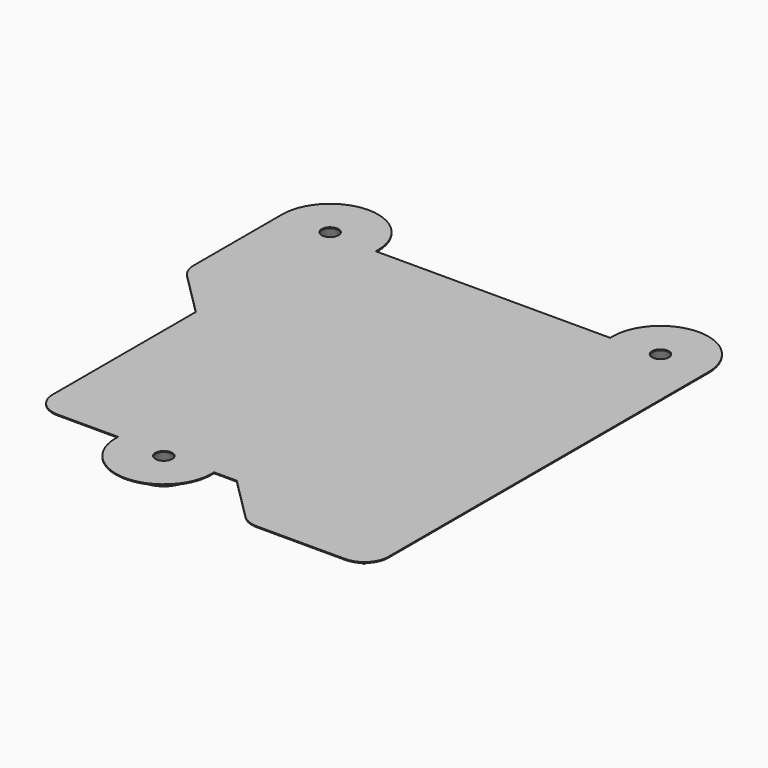
from build123d import *

# Parameters (mm, degrees)
F0_R     = 1.75
F1_DEPTH = 3
F2_SIZE2 = 2.8
F2_SIZE  = 1.6
F4_DEPTH = 0.2


with BuildPart() as f1:
    # F0 (on Top) → F1 (new body)
    with BuildSketch(Plane.XY):
        with BuildLine():
            Line((17.9, -39.193), (17.9, -44.793))
            ThreePointArc((17.9, -44.793), (22.9, -49.793), (27.9, -44.793))
            Line((27.9, -44.793), (27.9, -39.193))
            Line((27.9, -39.193), (39.6807047181, -39.193))
            Line((39.6807047181, -39.193), (50.1974673469, -49.6928583233))
            Line((50.1974673469, -49.6928583233), (68.6003446043, -49.6928583233))
            Line((68.6003446043, -49.6928583233), (68.6003446043, 33.6071416767))
            ThreePointArc((68.6003446043, 33.6071416767), (63.6003446043, 38.6071416767), (58.6003446043, 33.6071416767))
            Line((58.6003446043, 33.6071416767), (58.6003446043, 28.0071416767))
            Line((58.6003446043, 28.0071416767), (-0.1976553957, 28.0071416767))
            Line((-0.1976553957, 28.0071416767), (-0.1976553957, 33.6071416767))
            ThreePointArc((-0.1976553957, 33.6071416767), (-5.1976553957, 38.6071416767), (-10.1976553957, 33.6071416767))
            Line((-10.1976553957, 33.6071416767), (-10.1976553957, 10.6051872446))
            Line((-10.1976553957, 10.6051872446), (0.3, 0.124405442))
            Line((0.3, 0.124405442), (0.3, -39.193))
            Line((0.3, -39.193), (17.9, -39.193))
        make_face()
        with Locations((22.9, -44.793)):
            Circle(F0_R, mode=Mode.SUBTRACT)
        with Locations((-5.1976553957, 33.6071416767)):
            Circle(F0_R, mode=Mode.SUBTRACT)
        with Locations((63.6003446043, 33.6071416767)):
            Circle(F0_R, mode=Mode.SUBTRACT)
    extrude(amount=F1_DEPTH)

    # F2
    f2_edges = [f1.edges().sort_by_distance(p)[0] for p in [
        (21.15, -44.793, 0),
        (-6.947655, 33.607142, 0),
        (61.850345, 33.607142, 0),
    ]]
    f2_side = f1.faces().sort_by_distance((33.388783, -5.784916, 0))[0]
    chamfer(f2_edges, length=F2_SIZE, length2=F2_SIZE2, reference=f2_side)

    # F3 (on face) → F4 (join)
    with BuildSketch(Plane.XY.offset(3)):
        with BuildLine():
            ThreePointArc((4.8023446043, 33.6071416767), (-5.1976553957, 43.6071416767), (-15.1976553957, 33.6071416767))
            Line((-15.1976553957, 33.6071416767), (-15.1976553957, 10.6051872446))
            ThreePointArc((-15.1976553957, 10.6051872446), (-14.8162831751, 8.6899124771), (-13.7303444218, 7.0668107461))
            Line((-13.7303444218, 7.0668107461), (-4.7, -1.949018591))
            Line((-4.7, -1.949018591), (-4.7, -39.193))
            ThreePointArc((-4.7, -39.193), (-3.2355339059, -42.7285339059), (0.3, -44.193))
            Line((0.3, -44.193), (12.9, -44.193))
            Line((12.9, -44.193), (12.9, -44.793))
            ThreePointArc((12.9, -44.793), (23.2001352131, -54.7884949279), (32.8819837708, -44.193))
            Line((32.8819837708, -44.193), (37.6119923424, -44.193))
            Line((37.6119923424, -44.193), (46.6647783208, -53.2312348218))
            ThreePointArc((46.6647783208, -53.2312348218), (48.2859081001, -54.3130251219), (50.1974673469, -54.6928583233))
            Line((50.1974673469, -54.6928583233), (68.6003446043, -54.6928583233))
            ThreePointArc((68.6003446043, -54.6928583233), (72.1358785102, -53.2283922293), (73.6003446043, -49.6928583233))
            Line((73.6003446043, -49.6928583233), (73.6003446043, 33.6071416767))
            ThreePointArc((73.6003446043, 33.6071416767), (63.6003446043, 43.6071416767), (53.6003446043, 33.6071416767))
            Line((53.6003446043, 33.6071416767), (53.6003446043, 33.0071416767))
            Line((53.6003446043, 33.0071416767), (4.8023446043, 33.0071416767))
            Line((4.8023446043, 33.0071416767), (4.8023446043, 33.6071416767))
        make_face()
        with BuildLine():
            Line((0.3, 0.124405442), (-10.1976553957, 10.6051872446))
            Line((-10.1976553957, 10.6051872446), (-10.1976553957, 33.6071416767))
            ThreePointArc((-10.1976553957, 33.6071416767), (-5.1976553957, 38.6071416767), (-0.1976553957, 33.6071416767))
            Line((-0.1976553957, 33.6071416767), (-0.1976553957, 28.0071416767))
            Line((-0.1976553957, 28.0071416767), (58.6003446043, 28.0071416767))
            Line((58.6003446043, 28.0071416767), (58.6003446043, 33.6071416767))
            ThreePointArc((58.6003446043, 33.6071416767), (63.6003446043, 38.6071416767), (68.6003446043, 33.6071416767))
            Line((68.6003446043, 33.6071416767), (68.6003446043, -49.6928583233))
            Line((68.6003446043, -49.6928583233), (50.1974673469, -49.6928583233))
            Line((50.1974673469, -49.6928583233), (39.6807047181, -39.193))
            Line((39.6807047181, -39.193), (27.9, -39.193))
            Line((27.9, -39.193), (27.9, -44.793))
            ThreePointArc((27.9, -44.793), (22.9, -49.793), (17.9, -44.793))
            Line((17.9, -44.793), (17.9, -39.193))
            Line((17.9, -39.193), (0.3, -39.193))
            Line((0.3, -39.193), (0.3, 0.124405442))
        make_face(mode=Mode.SUBTRACT)
    extrude(amount=-F4_DEPTH)


solid = f1.part
